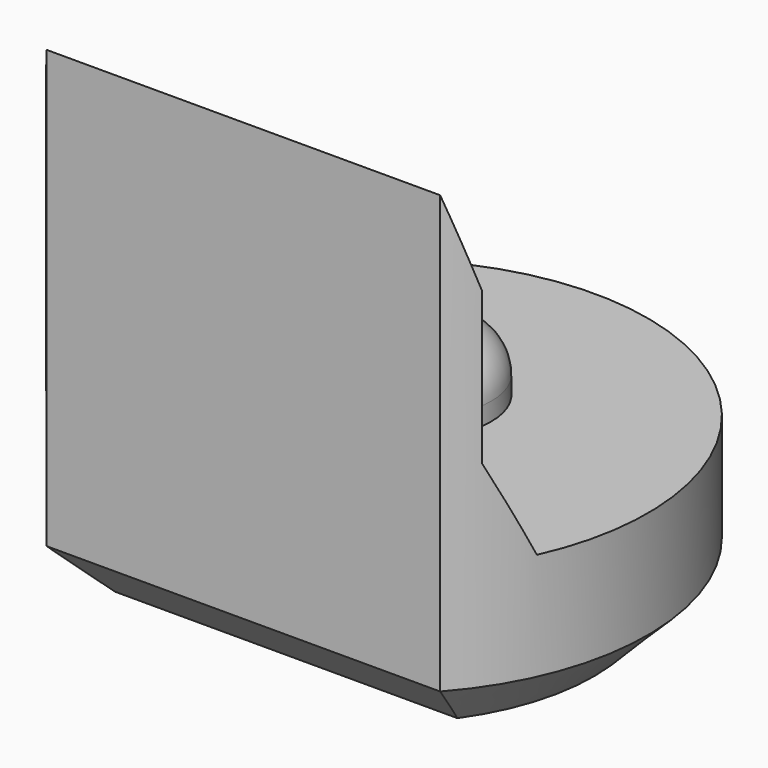
from build123d import *

# Parameters (mm, degrees)
PAD003_DEPTH         = 5.5
POCKET004_DEPTH      = 2.951
POCKET004_DEPTH_BACK = 2.951
SKETCH013_R          = 0.8
PAD006_DEPTH         = 0.7
FILLET_R             = 0.5
CHAMFER004_SIZE      = 0.6


with BuildPart() as part:
    # Sketch004 → Pad003 (new body)
    with BuildSketch(Plane.XY):
        with BuildLine():
            ThreePointArc((2.2, -1.9653244007), (0, 2.95), (-2.2, -1.9653244007))
            Line((-2.2, -1.9653244007), (2.2, -1.9653244007))
        make_face()
    extrude(amount=PAD003_DEPTH)

    # Sketch014 → Pocket004 (cut, two sides)
    with BuildSketch(Plane.YZ) as pocket004_sk:
        Polygon((-1.97, 5.5), (-1.67, 4.5), (-1.67, 2.8), (-1.22, 1.8), (4, 1.8), (4, 5.5), align=None)
    extrude(amount=-POCKET004_DEPTH, mode=Mode.SUBTRACT)
    extrude(pocket004_sk.sketch, amount=POCKET004_DEPTH_BACK, mode=Mode.SUBTRACT)

    # Sketch013 (on Face7 of Pocket004) → Pad006 (join)
    with BuildSketch(Plane.XY.offset(1.8)):
        with Locations((0, 0.5)):
            Circle(SKETCH013_R)
    extrude(amount=PAD006_DEPTH)

    # Fillet
    fillet_edges = [part.edges().sort_by_distance(p)[0] for p in [
        (-0.8, 0.5, 2.5),
    ]]
    fillet(fillet_edges, radius=FILLET_R)

    # Chamfer004
    chamfer004_edges = [part.edges().sort_by_distance(p)[0] for p in [
        (0, 2.95, 0),
        (0, -1.965324, 0),
    ]]
    chamfer(chamfer004_edges, length=CHAMFER004_SIZE)


with BuildPart() as part_1:
    # Body034 placement: moved
    add(part.part.moved(Location((0, 90, 0))))


solid = part_1.part
